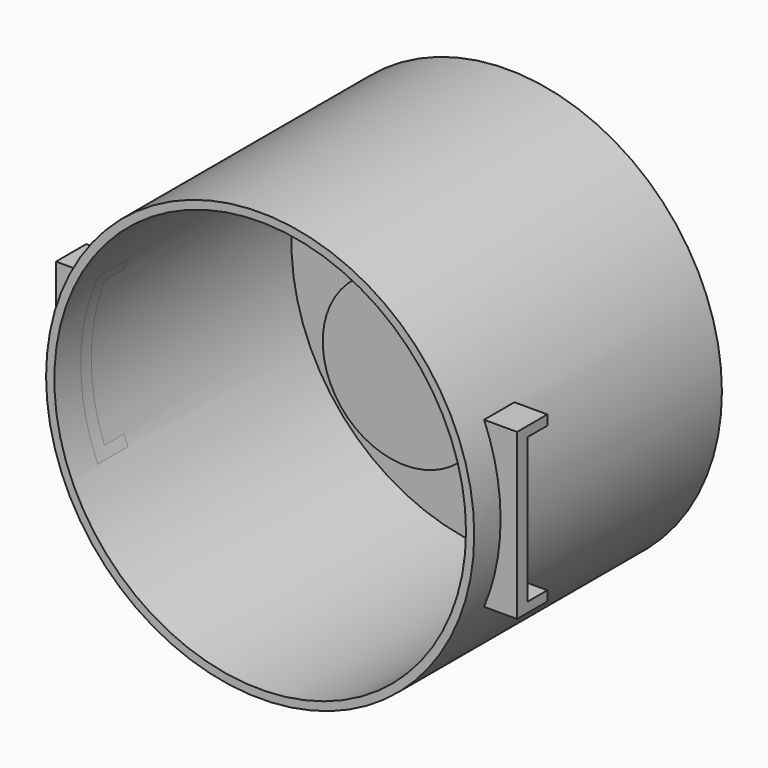
from build123d import *

# Parameters (mm, degrees)
F0_R     = 130
F1_DEPTH = 8
F2_R     = 130
F2_R_2   = 125
F3_DEPTH = 180
F4_R     = 50
F5_DEPTH = 70
F6_W     = 15
F6_H     = 6
F7_DEPTH = 140
F8_DEPTH = 25


with BuildPart() as f1:
    # F0 (on Front) → F1 (new body)
    with BuildSketch(Plane.XZ):
        Circle(F0_R)
    extrude(amount=F1_DEPTH)

    # F2 (on face) → F3 (join)
    with BuildSketch(Plane.XZ.offset(8)):
        Circle(F2_R)
        Circle(F2_R_2, mode=Mode.SUBTRACT)
    extrude(amount=F3_DEPTH)

    # F4 (on face) → F5 (join)
    with BuildSketch(Plane.XZ.offset(8)):
        Circle(F4_R)
    extrude(amount=F5_DEPTH)

    # F6 (on Right) → F7 (join, symmetric)
    with BuildSketch(Plane.YZ):
        Polygon((-160, 50), (-168, 50), (-168, -50), (-160, -50), (-160, -44), (-160, 44), align=None)
        with Locations((-152.5, 47)):
            Rectangle(F6_W, F6_H)
        with Locations((-152.5, -47)):
            Rectangle(F6_W, F6_H)
    extrude(amount=F7_DEPTH, both=True)

    # F7_face (on face) → F8 (cut)
    with BuildSketch(Plane.XZ.offset(168)):
        with BuildLine():
            Line((114.564392, 50), (-114.564392, 50))
            ThreePointArc((-114.564392, 50), (-125, 0), (-114.564392, -50))
            Line((-114.564392, -50), (114.564392, -50))
            ThreePointArc((114.564392, -50), (122.363289, -25.538705), (125, 0))
            ThreePointArc((125, 0), (122.363289, 25.538705), (114.564392, 50))
        make_face()
    extrude(amount=-F8_DEPTH, mode=Mode.SUBTRACT)


solid = f1.part
